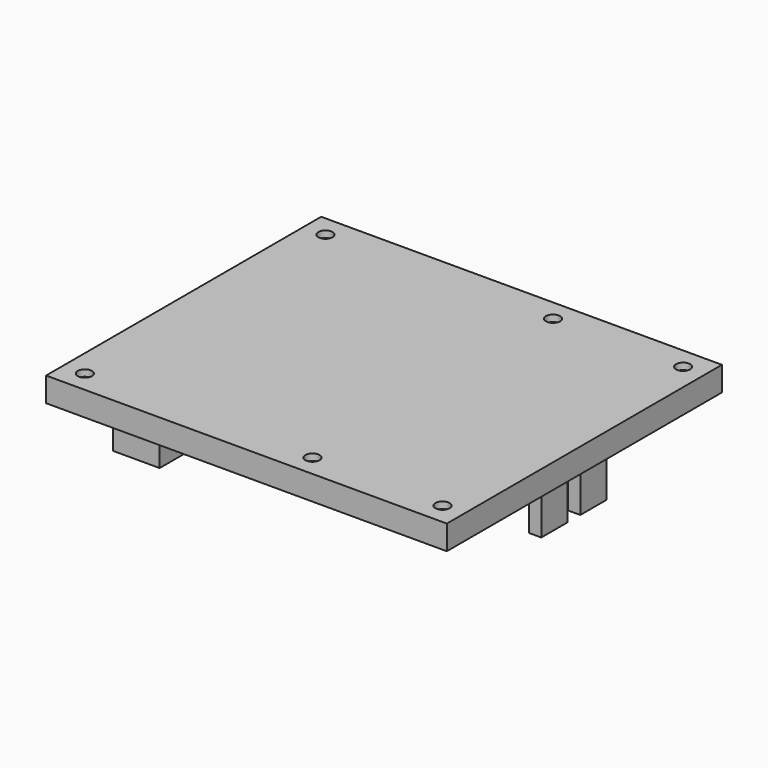
from build123d import *

# Parameters (mm, degrees)
SKETCH009_W             = 98.6
SKETCH009_H             = 84.6
PAD006_DEPTH            = 1.6
SKETCH010_W             = 98.6
SKETCH010_H             = 84.6
SKETCH010_W_2           = 96.6
SKETCH010_H_2           = 82.6
PAD007_DEPTH            = 6
SKETCH020_W             = 11.5
SKETCH020_H             = 15
PAD018_DEPTH            = 22.5
SKETCH027_W             = 3
SKETCH027_H             = 8
PAD019_DEPTH            = 17
SKETCH014_R             = 1.75
POCKET009_DEPTH         = 5
BODY003_PLACEMENT_ANGLE = 180


with BuildPart() as part:
    # Sketch009 → Pad006 (new body)
    with BuildSketch(Plane.XY):
        Rectangle(SKETCH009_W, SKETCH009_H)
    extrude(amount=PAD006_DEPTH)

    # Sketch010 → Pad007 (join)
    with BuildSketch(Plane.XY):
        Rectangle(SKETCH010_W, SKETCH010_H)
        Rectangle(SKETCH010_W_2, SKETCH010_H_2, mode=Mode.SUBTRACT)
    extrude(amount=PAD007_DEPTH)

    # Sketch020 → Pad018 (join)
    with BuildSketch(Plane.XY):
        with Locations((-40.95, 17.5)):
            Rectangle(SKETCH020_W, SKETCH020_H)
        with Locations((-40.95, -17.5)):
            Rectangle(SKETCH020_W, SKETCH020_H)
    extrude(amount=PAD018_DEPTH)

    # Sketch027 → Pad019 (join)
    with BuildSketch(Plane.XY):
        with Locations((45.2, 6)):
            Rectangle(SKETCH027_W, SKETCH027_H)
        with Locations((45.2, -6)):
            Rectangle(SKETCH027_W, SKETCH027_H)
    extrude(amount=PAD019_DEPTH)

    # Sketch014 → Pocket009 (cut)
    with BuildSketch(Plane.XY):
        with Locations((-44, 37)):
            Circle(SKETCH014_R)
        with Locations((12, 37)):
            Circle(SKETCH014_R)
        with Locations((44, 37)):
            Circle(SKETCH014_R)
        with Locations((44, -37)):
            Circle(SKETCH014_R)
        with Locations((12, -37)):
            Circle(SKETCH014_R)
        with Locations((-44, -37)):
            Circle(SKETCH014_R)
    extrude(amount=POCKET009_DEPTH, mode=Mode.SUBTRACT)


with BuildPart() as part_1:
    # Body003 placement: moved
    add(part.part.moved(Location((0, 0, 49.5))).rotate(Axis((0, 0, 49.5), (1, 0, 0)), BODY003_PLACEMENT_ANGLE))


solid = part_1.part
